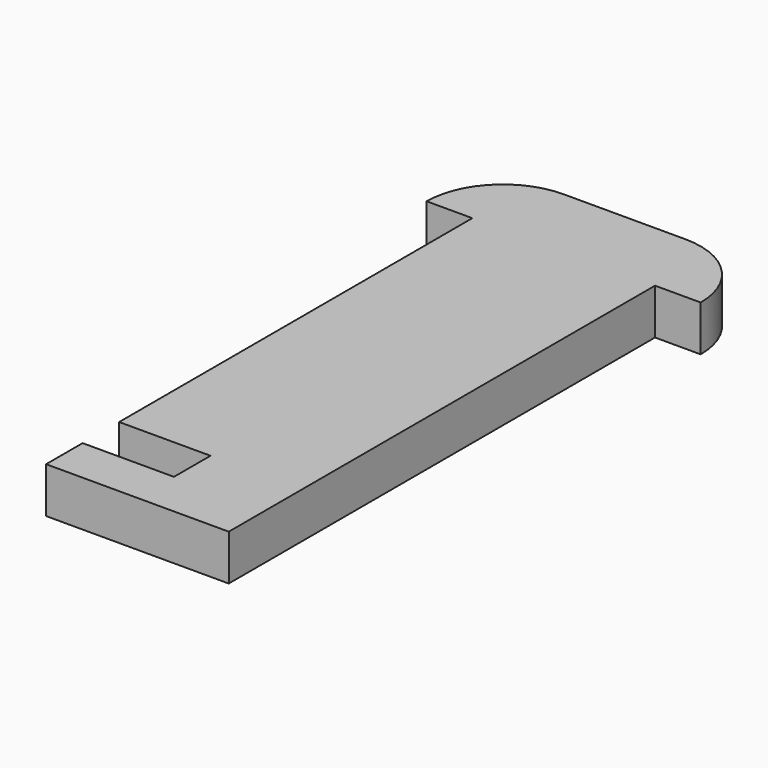
from build123d import *

# Parameters (mm, degrees)
F1_DEPTH = 3


with BuildPart() as f1:
    # F0 (on Top) → F1 (new body)
    with BuildSketch(Plane.XY):
        Polygon((6, 17.5), (-6, 17.5), (-6, -11.5), (0, -11.5), (0, -14.5), (-6, -14.5), (-6, -17.5), (6, -17.5), align=None)
        with BuildLine():
            Line((-9, 17.5), (-6, 17.5))
            Line((-6, 17.5), (6, 17.5))
            Line((6, 17.5), (9, 17.5))
            ThreePointArc((9, 17.5), (7.535534, 21.035534), (4, 22.5))
            Line((4, 22.5), (-4, 22.5))
            ThreePointArc((-4, 22.5), (-7.535534, 21.035534), (-9, 17.5))
        make_face()
    extrude(amount=F1_DEPTH)


solid = f1.part
